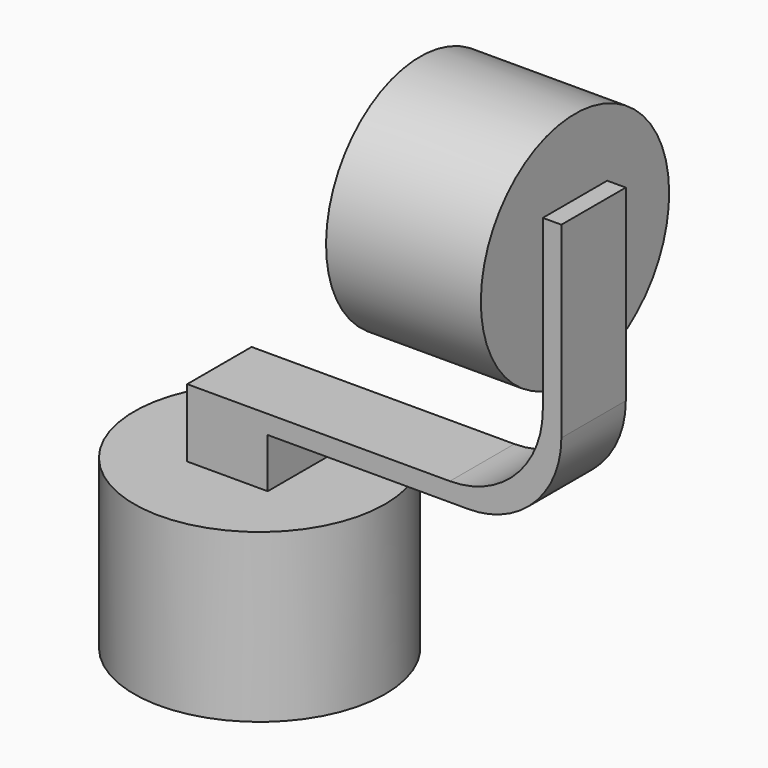
from build123d import *

# Parameters (mm, degrees)
F0_R      = 20.2700767199
F0_R_2    = 19.1
F1_DEPTH  = 25
F0_R_3    = 2
F2_DEPTH  = 2
F4_DEPTH  = 5
F3_W      = 13
F3_H      = 13
F3_R      = 2
F5_DEPTH  = 10
F7_DEPTH  = 13
F8_R      = 19
F9_DEPTH  = 25
F10_R     = 2.5
F11_DEPTH = 5
F12_SIZE  = 1


with BuildPart() as f1:
    # F0 (on Top) → F1 (new body)
    with BuildSketch(Plane.XY):
        Circle(F0_R)
        Circle(F0_R_2, mode=Mode.SUBTRACT)
    extrude(amount=-F1_DEPTH)

    # F0 (on Top) → F2 (join)
    with BuildSketch(Plane.XY):
        Circle(F0_R)
        Circle(F0_R_2, mode=Mode.SUBTRACT)
        Circle(F0_R_2)
        Circle(F0_R_3, mode=Mode.SUBTRACT)
    extrude(amount=F2_DEPTH)

    # F0 (on Top) → F4 (cut)
    with BuildSketch(Plane.XY):
        Circle(F0_R_3)
    extrude(amount=F4_DEPTH, mode=Mode.SUBTRACT)

    # F3 (on face) → F5 (join)
    with BuildSketch(Plane.XY):
        Rectangle(F3_W, F3_H)
        Circle(F3_R, mode=Mode.SUBTRACT)
    extrude(amount=F5_DEPTH)

    # F6 (on face) → F7 (join)
    with BuildSketch(Plane.XZ.offset(6.5)):
        with BuildLine():
            Line((-6.5, 13), (-6.5, 10))
            Line((-6.5, 10), (6.5, 10))
            Line((6.5, 10), (38.9184806049, 10))
            ThreePointArc((38.9184806049, 10), (41.4550102858, 10.2160216052), (43.9184806049, 10.8578643763))
            ThreePointArc((43.9184806049, 10.8578643763), (51.1659293188, 16.3397459622), (53.9184806049, 25))
            Line((53.9184806049, 25), (53.9184806049, 55.3070029616))
            Line((53.9184806049, 55.3070029616), (50.9184806049, 55.3070029616))
            Line((50.9184806049, 55.3070029616), (50.9184806049, 28))
            ThreePointArc((50.9184806049, 28), (46.5250823227, 17.3933982822), (35.9184806049, 13))
            Line((35.9184806049, 13), (-6.5, 13))
        make_face()
    extrude(amount=-F7_DEPTH)

    # F8 (on face) → F9 (join)
    with BuildSketch(Plane(origin=(50.9184806049, 0, 0), x_dir=(0, -1, 0), z_dir=(-1, 0, 0))):
        with Locations((0, 48.4660230577)):
            Circle(F8_R)
        with BuildLine():
            Line((-6.5, 55.3070029616), (-6.5, 30.6124519863))
            ThreePointArc((-6.5, 30.6124519863), (0, 29.4660230577), (6.5, 30.6124519863))
            Line((6.5, 30.6124519863), (6.5, 55.3070029616))
            Line((6.5, 55.3070029616), (-6.5, 55.3070029616))
        make_face()
    extrude(amount=F9_DEPTH)

    # F10 (on face) → F11 (join)
    with BuildSketch(Plane(origin=(25.9184806049, 0, 0), x_dir=(0, -1, 0), z_dir=(-1, 0, 0))):
        with Locations((0, 48.4660230577)):
            Circle(F10_R)
        with Locations((0, 48.4660230577)):
            Circle(F10_R)
    extrude(amount=F11_DEPTH)

    # F12
    f12_edges = [f1.edges().sort_by_distance(p)[0] for p in [
        (20.918481, 2.5, 48.466023),
    ]]
    chamfer(f12_edges, length=F12_SIZE)


solid = f1.part
